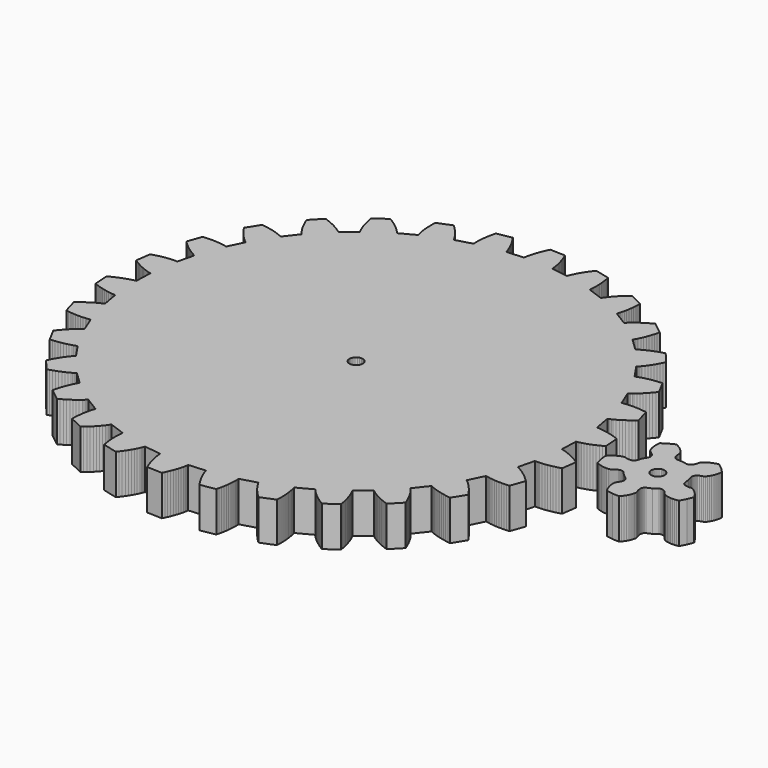
from build123d import *

# Parameters (mm, degrees)
F1_DEPTH = 19.05


with BuildPart() as f1:
    # F0 (on Top) → F1 (new body)
    with BuildSketch(Plane.XY):
        Polygon((78.499716, -7.552817), (78.22819, -7.490333), (78.496668, 0.519049), (78.77175, 0.563245), (79.046832, 0.612267), (79.321914, 0.665607), (79.596996, 0.722757), (80.146906, 0.848233), (80.696562, 0.987679), (81.794604, 1.303401), (82.891376, 1.664081), (83.98637, 2.066163), (85.079078, 2.506599), (86.168992, 2.983611), (87.256366, 3.495421), (88.340438, 4.040505), (89.420954, 4.618355), (88.911938, 11.756517), (87.760302, 12.175109), (86.609682, 12.560935), (85.46084, 12.913233), (84.31403, 13.230479), (83.170014, 13.511403), (82.029046, 13.753973), (80.892142, 13.955395), (79.760318, 14.112113), (79.196438, 14.172057), (78.634336, 14.218285), (78.35392, 14.235811), (78.074012, 14.249527), (77.794866, 14.258925), (77.516228, 14.263751), (76.11364, 22.154007), (76.373482, 22.254337), (76.632562, 22.359493), (76.890372, 22.468713), (77.14742, 22.581997), (77.65923, 22.819233), (78.167992, 23.069677), (79.176626, 23.606887), (80.174338, 24.187785), (81.161636, 24.808561), (82.138774, 25.466675), (83.106006, 26.159841), (84.063078, 26.886535), (85.010244, 27.645233), (85.946996, 28.434919), (83.96478, 35.311461), (82.751422, 35.481133), (81.545684, 35.619563), (80.348836, 35.725227), (79.161132, 35.797109), (77.983588, 35.833939), (76.81722, 35.834193), (75.663298, 35.794823), (74.523346, 35.712781), (73.959466, 35.654107), (73.400158, 35.582479), (73.122028, 35.541331), (72.845676, 35.496627), (72.57034, 35.447859), (72.296782, 35.394519), (69.284342, 42.820463), (69.517768, 42.972863), (69.749162, 43.129581), (69.978778, 43.290109), (70.20687, 43.454193), (70.657974, 43.792521), (71.10349, 44.143549), (71.97852, 44.878625), (72.833484, 45.654341), (73.67016, 46.466887), (74.48931, 47.313723), (75.291188, 48.192817), (76.076302, 49.102391), (76.844906, 50.041683), (77.597, 51.008661), (74.228452, 57.322847), (73.006204, 57.236741), (71.798434, 57.121171), (70.605396, 56.975883), (69.428868, 56.799353), (68.269358, 56.590565), (67.12839, 56.347995), (66.007996, 56.069611), (64.910208, 55.752365), (64.370712, 55.577867), (63.838328, 55.391431), (63.57493, 55.293641), (63.313818, 55.192295), (63.054738, 55.087139), (62.798198, 54.978173), (58.307732, 61.615701), (58.504328, 61.813313), (58.69813, 62.014735), (58.889392, 62.219459), (59.078368, 62.427231), (59.449208, 62.852173), (59.81192, 63.288037), (60.514992, 64.188975), (61.190124, 65.125473), (61.839602, 66.094229), (62.464696, 67.092957), (63.066422, 68.119371), (63.645034, 69.172455), (64.201802, 70.250939), (64.736218, 71.353299), (60.128658, 76.829031), (58.95086, 76.490703), (57.793382, 76.126721), (56.656986, 75.736323), (55.542688, 75.319001), (54.451758, 74.873739), (53.386228, 74.399267), (52.34813, 73.894061), (51.340258, 73.355581), (50.849022, 73.072625), (50.36693, 72.779763), (50.129694, 72.629141), (49.895252, 72.475725), (49.663858, 72.319261), (49.435512, 72.159241), (43.663108, 77.718031), (43.814492, 77.952219), (43.962066, 78.189455), (44.106592, 78.429485), (44.24807, 78.672055), (44.522644, 79.164815), (44.786804, 79.666465), (45.287184, 80.693895), (45.752766, 81.750281), (46.186852, 82.832829), (46.590458, 83.939761), (46.965616, 85.069045), (47.312834, 86.219411), (47.632874, 87.389843), (47.926752, 88.579325), (42.281094, 92.977589), (41.199562, 92.401771), (40.143176, 91.804871), (39.112444, 91.186889), (38.109398, 90.546809), (37.135054, 89.884631), (36.191444, 89.199085), (35.281108, 88.489155), (34.407094, 87.752809), (33.985454, 87.373841), (33.574736, 86.986999), (33.374076, 86.790403), (33.176718, 86.591521), (32.982916, 86.390353), (32.792924, 86.186391), (25.990804, 90.423619), (26.090118, 90.684223), (26.185114, 90.946859), (26.276554, 91.211781), (26.364438, 91.478481), (26.530808, 92.017469), (26.684986, 92.563061), (26.960576, 93.672025), (27.196542, 94.802325), (27.395678, 95.951421), (27.560524, 97.118043), (27.692604, 98.300667), (27.793188, 99.498023), (27.863038, 100.709603), (27.902916, 101.934137), (21.466302, 105.062401), (20.52828, 104.274239), (19.618706, 103.470837), (18.739358, 102.651941), (17.890998, 101.817551), (17.075658, 100.967159), (16.295116, 100.100257), (15.55242, 99.216591), (14.850618, 98.314637), (14.516862, 97.856167), (14.195806, 97.392617), (14.040358, 97.158683), (13.888466, 96.922971), (13.740638, 96.685989), (13.597382, 96.446975), (6.06298, 99.177221), (6.105906, 99.452811), (6.14426, 99.729417), (6.17855, 100.007547), (6.209284, 100.286947), (6.259576, 100.848541), (6.296914, 101.414453), (6.33603, 102.556437), (6.331966, 103.710867), (6.28777, 104.876473), (6.20649, 106.051731), (6.089904, 107.235879), (5.939282, 108.428155), (5.75564, 109.627797), (5.539994, 110.833789), (-1.406144, 112.555401), (-2.160016, 111.589439), (-2.882392, 110.614587), (-3.57251, 109.630845), (-4.228846, 108.638213), (-4.849368, 107.636945), (-5.432552, 106.626787), (-5.975604, 105.607739), (-6.47446, 104.579801), (-6.7056, 104.061895), (-6.923278, 103.541703), (-7.026656, 103.280591), (-7.126224, 103.018463), (-7.221474, 102.755827), (-7.312152, 102.492175), (-15.249398, 103.596567), (-15.264638, 103.874697), (-15.284704, 104.153589), (-15.308834, 104.432735), (-15.337028, 104.712135), (-15.404592, 105.272205), (-15.485618, 105.833291), (-15.684754, 106.958511), (-15.929102, 108.087033), (-16.214344, 109.217841), (-16.538194, 110.350681), (-16.89862, 111.484537), (-17.293844, 112.619409), (-17.72285, 113.754535), (-18.184368, 114.889661), (-25.336754, 115.129437), (-25.873456, 114.027839), (-26.377392, 112.923955), (-26.8478, 111.818039), (-27.283156, 110.710853), (-27.68219, 109.602397), (-28.042616, 108.493179), (-28.361894, 107.383453), (-28.63596, 106.274235), (-28.754578, 105.719753), (-28.859226, 105.165525), (-28.906216, 104.888411), (-28.948888, 104.611551), (-28.987496, 104.334945), (-29.021532, 104.058085), (-37.014912, 103.488109), (-37.08781, 103.757095), (-37.16528, 104.025573), (-37.246814, 104.293543), (-37.332666, 104.561005), (-37.515038, 105.094913), (-37.710872, 105.626789), (-38.139878, 106.685969), (-38.613334, 107.739053), (-39.12743, 108.786041), (-39.67988, 109.826679), (-40.268144, 110.860967), (-40.890698, 111.888651), (-41.546272, 112.909985), (-42.233596, 113.924207), (-49.279556, 112.671479), (-49.575466, 111.482505), (-49.838864, 110.298103), (-50.069242, 109.118527), (-50.264822, 107.944793), (-50.424588, 106.777663), (-50.546508, 105.617645), (-50.628042, 104.466009), (-50.665634, 103.324025), (-50.666396, 102.756843), (-50.653442, 102.192963), (-50.641758, 101.912293), (-50.62601, 101.632639), (-50.606198, 101.354001), (-50.581814, 101.076125), (-58.282078, 98.856673), (-58.409332, 99.104577), (-58.540904, 99.351211), (-58.67654, 99.596321), (-58.815986, 99.840161), (-59.105292, 100.324285), (-59.407806, 100.803837), (-60.047378, 101.751003), (-60.729368, 102.682421), (-61.449966, 103.599615), (-62.206632, 104.502585), (-62.99708, 105.392093), (-63.819786, 106.267885), (-64.67348, 107.130469), (-65.556638, 107.979591), (-72.188324, 105.289477), (-72.230488, 104.064943), (-72.241918, 102.851585), (-72.221852, 101.649911), (-72.169274, 100.461191), (-72.082914, 99.286187), (-71.960994, 98.126423), (-71.801228, 96.982915), (-71.600568, 95.857949), (-71.48322, 95.303213), (-71.35368, 94.754319), (-71.283576, 94.482285), (-71.21017, 94.211775), (-71.132954, 93.943297), (-71.051166, 93.676851), (-78.121764, 89.904697), (-78.297786, 90.120851), (-78.477618, 90.334719), (-78.66126, 90.546301), (-78.848458, 90.755851), (-79.232252, 91.169109), (-79.627476, 91.575509), (-80.450182, 92.368751), (-81.310988, 93.138117), (-82.206592, 93.885385), (-83.134454, 94.611317), (-84.092542, 95.316929), (-85.079332, 96.002729), (-86.093554, 96.668971), (-87.134192, 97.315909), (-93.061536, 93.305757), (-92.848176, 92.099257), (-92.606876, 90.910029), (-92.337636, 89.738835), (-92.038932, 88.586945), (-91.710256, 87.455629), (-91.34983, 86.346411), (-90.955876, 85.261069), (-90.5256, 84.202397), (-90.295476, 83.684237), (-90.054684, 83.174205), (-89.929716, 82.922745), (-89.8017, 82.673571), (-89.670128, 82.426937), (-89.535, 82.183097), (-95.66656, 77.023341), (-95.88373, 77.198347), (-96.104202, 77.370051), (-96.327722, 77.538707), (-96.55429, 77.704823), (-97.015554, 78.029435), (-97.486978, 78.344649), (-98.456496, 78.949677), (-99.458526, 79.523209), (-100.489766, 80.067785), (-101.548184, 80.585183), (-102.632256, 81.076165), (-103.73995, 81.541747), (-104.870504, 81.982437), (-106.022902, 82.398997), (-110.987078, 77.244067), (-110.527338, 76.108179), (-110.04423, 74.995151), (-109.537246, 73.905491), (-109.005878, 72.840977), (-108.448856, 71.802879), (-107.865926, 70.792721), (-107.254802, 69.813043), (-106.61396, 68.866893), (-106.28122, 68.407915), (-105.939336, 67.959097), (-105.764838, 67.739133), (-105.5878, 67.521963), (-105.407968, 67.308095), (-105.225088, 67.097783), (-110.149894, 60.775977), (-110.39856, 60.901961), (-110.65002, 61.023881), (-110.903766, 61.142499), (-111.160052, 61.257815), (-111.67872, 61.479557), (-112.205262, 61.689869), (-113.279174, 62.080013), (-114.378486, 62.432819), (-115.500658, 62.751081), (-116.643658, 63.036831), (-117.805708, 63.291847), (-118.9863, 63.516891), (-120.183656, 63.712979), (-121.397522, 63.880873), (-125.18136, 57.806463), (-124.49556, 56.790971), (-123.791726, 55.802657), (-123.06935, 54.842283), (-122.327924, 53.911627), (-121.567448, 53.011705), (-120.78716, 52.145057), (-119.98579, 51.313715), (-119.162068, 50.521743), (-118.74119, 50.141759), (-118.313708, 49.773967), (-118.0973, 49.594897), (-117.87886, 49.419383), (-117.658388, 49.247679), (-117.435884, 49.080039), (-120.938798, 41.872281), (-121.208038, 41.943655), (-121.47931, 42.010965), (-121.75236, 42.074211), (-122.026934, 42.133647), (-122.580146, 42.242613), (-123.138946, 42.338879), (-124.27077, 42.497121), (-125.419358, 42.613707), (-126.583186, 42.691685), (-127.760476, 42.733849), (-128.950466, 42.741469), (-130.151886, 42.716069), (-131.363974, 42.658919), (-132.585968, 42.570781), (-135.024368, 35.842575), (-134.14248, 34.991929), (-133.2484, 34.171255), (-132.342128, 33.382331), (-131.42341, 32.625919), (-130.4925, 31.903797), (-129.54889, 31.218251), (-128.592326, 30.571821), (-127.622046, 29.968317), (-127.131318, 29.684345), (-126.636526, 29.413327), (-126.387606, 29.283279), (-126.137416, 29.157041), (-125.88621, 29.034613), (-125.63348, 28.917011), (-127.56134, 21.138515), (-127.839724, 21.152485), (-128.119124, 21.161883), (-128.399286, 21.166963), (-128.68021, 21.167979), (-129.24409, 21.159597), (-129.810764, 21.137499), (-130.950462, 21.056981), (-132.098288, 20.932013), (-133.252972, 20.766659), (-134.413244, 20.562951), (-135.57885, 20.322921), (-136.74852, 20.048601), (-137.922508, 19.740499), (-139.09929, 19.400139), (-140.085572, 12.312015), (-139.046204, 11.663299), (-138.000994, 11.046587), (-136.95045, 10.463149), (-135.894572, 9.914255), (-134.833868, 9.401683), (-133.768338, 8.927211), (-132.698236, 8.493887), (-131.623562, 8.105267), (-131.084574, 7.929499), (-130.544316, 7.767193), (-130.273806, 7.691755), (-130.003042, 7.620127), (-129.73177, 7.552817), (-129.460244, 7.490333), (-129.728722, -0.519049), (-130.003804, -0.563245), (-130.278886, -0.612267), (-130.553968, -0.665607), (-130.82905, -0.722757), (-131.37896, -0.848233), (-131.928616, -0.987679), (-133.026658, -1.303401), (-134.12343, -1.664081), (-135.218424, -2.066163), (-136.311132, -2.506599), (-137.401046, -2.983611), (-138.48842, -3.495421), (-139.572492, -4.040505), (-140.653008, -4.618355), (-140.143992, -11.756517), (-138.992356, -12.175109), (-137.841736, -12.560935), (-136.692894, -12.913233), (-135.546084, -13.230479), (-134.402068, -13.511403), (-133.2611, -13.753973), (-132.124196, -13.955395), (-130.992372, -14.112113), (-130.428492, -14.172057), (-129.86639, -14.218285), (-129.585974, -14.235811), (-129.306066, -14.249527), (-129.02692, -14.258925), (-128.748282, -14.263751), (-127.345694, -22.154007), (-127.605536, -22.254337), (-127.864616, -22.359493), (-128.122426, -22.468713), (-128.379474, -22.581997), (-128.891284, -22.819233), (-129.400046, -23.069677), (-130.40868, -23.606887), (-131.406392, -24.187785), (-132.39369, -24.808561), (-133.370828, -25.466675), (-134.33806, -26.159841), (-135.295132, -26.886535), (-136.242298, -27.645233), (-137.17905, -28.434919), (-135.196834, -35.311461), (-133.983476, -35.481133), (-132.777738, -35.619563), (-131.58089, -35.725227), (-130.393186, -35.797109), (-129.215642, -35.833939), (-128.049274, -35.834193), (-126.895352, -35.794823), (-125.755654, -35.712781), (-125.19152, -35.654107), (-124.632212, -35.582479), (-124.354336, -35.541331), (-124.07773, -35.496627), (-123.802394, -35.447859), (-123.528836, -35.394519), (-120.51665, -42.820463), (-120.749822, -42.972863), (-120.981216, -43.129581), (-121.210832, -43.290109), (-121.438924, -43.454193), (-121.890028, -43.792521), (-122.335544, -44.143549), (-123.210574, -44.878625), (-124.065538, -45.654341), (-124.902214, -46.466887), (-125.721364, -47.313723), (-126.523242, -48.192817), (-127.308356, -49.102645), (-128.07696, -50.041683), (-128.829054, -51.008915), (-125.460506, -57.322847), (-124.238258, -57.236741), (-123.030488, -57.121425), (-121.83745, -56.975883), (-120.660922, -56.799353), (-119.501412, -56.590565), (-118.360444, -56.347995), (-117.24005, -56.069611), (-116.142262, -55.752365), (-115.602766, -55.577867), (-115.070382, -55.391431), (-114.806984, -55.293641), (-114.545872, -55.192295), (-114.286792, -55.087139), (-114.030252, -54.978173), (-109.539786, -61.615701), (-109.736382, -61.813313), (-109.930184, -62.014735), (-110.121446, -62.219459), (-110.310422, -62.427231), (-110.681262, -62.852173), (-111.043974, -63.288037), (-111.747046, -64.188975), (-112.422178, -65.125473), (-113.071656, -66.094229), (-113.69675, -67.092957), (-114.298476, -68.119371), (-114.877342, -69.172455), (-115.433856, -70.250939), (-115.968272, -71.353299), (-111.360712, -76.829031), (-110.183168, -76.490703), (-109.025436, -76.126721), (-107.88904, -75.736323), (-106.774742, -75.319001), (-105.683812, -74.873739), (-104.618282, -74.399267), (-103.580184, -73.894061), (-102.572312, -73.355581), (-102.081076, -73.072625), (-101.598984, -72.779763), (-101.361748, -72.629141), (-101.127306, -72.475725), (-100.895912, -72.319261), (-100.667566, -72.159241), (-94.895162, -77.718031), (-95.046546, -77.952219), (-95.19412, -78.189455), (-95.338646, -78.429485), (-95.480124, -78.672055), (-95.754698, -79.164815), (-96.018858, -79.666465), (-96.519238, -80.693895), (-96.98482, -81.750281), (-97.418906, -82.832829), (-97.822512, -83.939761), (-98.19767, -85.069045), (-98.544888, -86.219411), (-98.864928, -87.389843), (-99.158806, -88.579325), (-93.513148, -92.977589), (-92.431616, -92.401771), (-91.37523, -91.804871), (-90.344752, -91.186889), (-89.341452, -90.546809), (-88.367108, -89.884631), (-87.423498, -89.199085), (-86.513162, -88.489155), (-85.639148, -87.752809), (-85.217508, -87.373841), (-84.80679, -86.986999), (-84.60613, -86.790403), (-84.408772, -86.591521), (-84.21497, -86.390353), (-84.024978, -86.186391), (-77.222858, -90.423619), (-77.322172, -90.684223), (-77.417168, -90.946859), (-77.508608, -91.211781), (-77.596492, -91.478481), (-77.762862, -92.017469), (-77.91704, -92.563061), (-78.19263, -93.672025), (-78.428596, -94.802325), (-78.627732, -95.951421), (-78.792578, -97.118043), (-78.924658, -98.300667), (-79.025242, -99.498023), (-79.095092, -100.709603), (-79.13497, -101.934137), (-72.698356, -105.062401), (-71.760334, -104.274239), (-70.85076, -103.470837), (-69.971412, -102.651941), (-69.123052, -101.817551), (-68.307712, -100.967159), (-67.52717, -100.100257), (-66.784474, -99.216591), (-66.082672, -98.314637), (-65.748916, -97.856167), (-65.42786, -97.392617), (-65.272412, -97.158683), (-65.12052, -96.922971), (-64.972692, -96.685989), (-64.829436, -96.446975), (-57.295034, -99.177475), (-57.33796, -99.452811), (-57.376314, -99.729417), (-57.410858, -100.007547), (-57.441338, -100.286947), (-57.49163, -100.848541), (-57.528968, -101.414453), (-57.568084, -102.556437), (-57.56402, -103.710867), (-57.519824, -104.876473), (-57.438544, -106.051731), (-57.321958, -107.235879), (-57.171336, -108.428155), (-56.987694, -109.627797), (-56.772048, -110.833789), (-49.82591, -112.555401), (-49.072038, -111.589439), (-48.349662, -110.614587), (-47.659544, -109.630845), (-47.003208, -108.638213), (-46.382686, -107.636945), (-45.799502, -106.626787), (-45.25645, -105.607739), (-44.757594, -104.579801), (-44.526454, -104.061895), (-44.308776, -103.541703), (-44.205398, -103.280591), (-44.10583, -103.018463), (-44.01058, -102.755827), (-43.919902, -102.492175), (-35.982656, -103.596567), (-35.967416, -103.874697), (-35.94735, -104.153589), (-35.92322, -104.432735), (-35.895026, -104.712135), (-35.827462, -105.272205), (-35.746436, -105.833291), (-35.5473, -106.958511), (-35.302952, -108.087033), (-35.01771, -109.217841), (-34.69386, -110.350681), (-34.333434, -111.484537), (-33.93821, -112.619409), (-33.509204, -113.754535), (-33.047686, -114.889661), (-25.8953, -115.129437), (-25.358598, -114.027839), (-24.854662, -112.923955), (-24.384254, -111.818293), (-23.948898, -110.710853), (-23.549864, -109.602397), (-23.189438, -108.493179), (-22.87016, -107.383453), (-22.596094, -106.274235), (-22.477476, -105.719753), (-22.372828, -105.165525), (-22.325838, -104.888411), (-22.283166, -104.611551), (-22.244558, -104.334945), (-22.210522, -104.058085), (-14.217142, -103.488109), (-14.144244, -103.757095), (-14.066774, -104.025573), (-13.98524, -104.293543), (-13.899388, -104.561005), (-13.717016, -105.094913), (-13.521182, -105.626789), (-13.092176, -106.685969), (-12.61872, -107.739053), (-12.104624, -108.786041), (-11.552174, -109.826679), (-10.96391, -110.860967), (-10.341356, -111.888651), (-9.685782, -112.909985), (-8.998458, -113.924207), (-1.952498, -112.671479), (-1.656588, -111.482505), (-1.39319, -110.298103), (-1.162812, -109.118527), (-0.967232, -107.944793), (-0.807466, -106.777663), (-0.685546, -105.617645), (-0.604012, -104.466009), (-0.56642, -103.324025), (-0.565658, -102.756843), (-0.578612, -102.192963), (-0.590296, -101.912293), (-0.606044, -101.632639), (-0.625856, -101.354001), (-0.65024, -101.076125), (7.050024, -98.856673), (7.177278, -99.104577), (7.30885, -99.351211), (7.444486, -99.596321), (7.583932, -99.840161), (7.873238, -100.324285), (8.175752, -100.803837), (8.815324, -101.751003), (9.497314, -102.682421), (10.217912, -103.599615), (10.974578, -104.502585), (11.765026, -105.392093), (12.587732, -106.267885), (13.441426, -107.130469), (14.324584, -107.979591), (20.95627, -105.289477), (20.998434, -104.064943), (21.009864, -102.851585), (20.989798, -101.649911), (20.93722, -100.461191), (20.85086, -99.286187), (20.72894, -98.126423), (20.569174, -96.982915), (20.368514, -95.857949), (20.251166, -95.303213), (20.121626, -94.754319), (20.051522, -94.482285), (19.978116, -94.211775), (19.9009, -93.943297), (19.819112, -93.676851), (26.88971, -89.904697), (27.065732, -90.120851), (27.245564, -90.334719), (27.429206, -90.546301), (27.616404, -90.755851), (28.000198, -91.169109), (28.395422, -91.575509), (29.218128, -92.368751), (30.078934, -93.138117), (30.974538, -93.885385), (31.9024, -94.611317), (32.860488, -95.316929), (33.847278, -96.002729), (34.8615, -96.668971), (35.902138, -97.315909), (41.829482, -93.305757), (41.616122, -92.099257), (41.374822, -90.910029), (41.105582, -89.738835), (40.806878, -88.586945), (40.478202, -87.455629), (40.117776, -86.346411), (39.723822, -85.261069), (39.293546, -84.202397), (39.063422, -83.684237), (38.82263, -83.174205), (38.697662, -82.922745), (38.569646, -82.673571), (38.438074, -82.426937), (38.302946, -82.183097), (44.434506, -77.023341), (44.651676, -77.198347), (44.872148, -77.370051), (45.095668, -77.538707), (45.322236, -77.704823), (45.7835, -78.029435), (46.254924, -78.344649), (47.224442, -78.949677), (48.226472, -79.523209), (49.257712, -80.067785), (50.31613, -80.585183), (51.400202, -81.076165), (52.507896, -81.541747), (53.63845, -81.982437), (54.790848, -82.398997), (59.755024, -77.244067), (59.295284, -76.108179), (58.812176, -74.995151), (58.305192, -73.905745), (57.773824, -72.840977), (57.216802, -71.802879), (56.633872, -70.792721), (56.022748, -69.813043), (55.381906, -68.866893), (55.049166, -68.407915), (54.707282, -67.959097), (54.532784, -67.739133), (54.355746, -67.521963), (54.175914, -67.308095), (53.993034, -67.097783), (58.91784, -60.775977), (59.166506, -60.901961), (59.417966, -61.023881), (59.671712, -61.142499), (59.927998, -61.257815), (60.446666, -61.479557), (60.973208, -61.689869), (62.04712, -62.080013), (63.146432, -62.432819), (64.268604, -62.751081), (65.411604, -63.036831), (66.573654, -63.291847), (67.754246, -63.516891), (68.951602, -63.712979), (70.165468, -63.880873), (73.949306, -57.806463), (73.263506, -56.790971), (72.559672, -55.802657), (71.837296, -54.842283), (71.09587, -53.911627), (70.335394, -53.011705), (69.555106, -52.145057), (68.753736, -51.313715), (67.930014, -50.521743), (67.509136, -50.141759), (67.081654, -49.773967), (66.865246, -49.594897), (66.646806, -49.419383), (66.426334, -49.247679), (66.203576, -49.080039), (69.706744, -41.872281), (69.975984, -41.943655), (70.247256, -42.010965), (70.520306, -42.074211), (70.79488, -42.133647), (71.348092, -42.242613), (71.906892, -42.338879), (73.038716, -42.497121), (74.187304, -42.613707), (75.351132, -42.691685), (76.528422, -42.733849), (77.718412, -42.741469), (78.919832, -42.716069), (80.13192, -42.658919), (81.353914, -42.570781), (83.792314, -35.842575), (82.910426, -34.991929), (82.016346, -34.171255), (81.110074, -33.382331), (80.191356, -32.625919), (79.260446, -31.903797), (78.316836, -31.218251), (77.360272, -30.571821), (76.389992, -29.968317), (75.899264, -29.684345), (75.404472, -29.413327), (75.155552, -29.283279), (74.905362, -29.157041), (74.654156, -29.034613), (74.401426, -28.917011), (76.329286, -21.138515), (76.60767, -21.152485), (76.88707, -21.161883), (77.167232, -21.166963), (77.448156, -21.167979), (78.012036, -21.159597), (78.57871, -21.137499), (79.718408, -21.056981), (80.866234, -20.932013), (82.020918, -20.766659), (83.18119, -20.562951), (84.346542, -20.322921), (85.516466, -20.048601), (86.690454, -19.740499), (87.867236, -19.400139), (88.853518, -12.312015), (87.81415, -11.663299), (86.76894, -11.046587), (85.718396, -10.463149), (84.662518, -9.914255), (83.601814, -9.401683), (82.536284, -8.927211), (81.466182, -8.493887), (80.391508, -8.105267), (79.85252, -7.929499), (79.312262, -7.767193), (79.041752, -7.691755), (78.770988, -7.620127), align=None)
        Polygon((-22.549104, 0.821817), (-22.441154, -0.000127), (-22.549104, -0.821817), (-22.86635, -1.587627), (-23.371048, -2.244979), (-24.028654, -2.749677), (-24.79421, -3.066923), (-25.616154, -3.175127), (-26.437844, -3.066923), (-27.203654, -2.749677), (-27.861006, -2.244979), (-28.365704, -1.587627), (-28.68295, -0.821817), (-28.791154, -0.000127), (-28.68295, 0.821817), (-28.365704, 1.587373), (-27.861006, 2.244979), (-27.203654, 2.749677), (-26.437844, 3.066923), (-25.616154, 3.174873), (-24.79421, 3.066923), (-24.028654, 2.749677), (-23.371048, 2.244979), (-22.86635, 1.587373), align=None, mode=Mode.SUBTRACT)
        Polygon((107.129326, -7.206869), (107.668822, -7.651115), (109.264704, -9.412351), (111.159544, -10.847451), (111.649256, -11.346053), (111.789464, -11.629517), (111.86795, -11.876405), (111.912654, -12.104243), (111.934498, -12.319127), (111.939324, -12.524867), (111.909352, -12.916535), (111.838994, -13.288137), (111.736124, -13.644753), (111.451136, -14.321663), (111.077502, -14.958695), (110.627922, -15.560167), (110.355888, -16.243427), (110.293912, -17.022191), (110.320074, -17.834229), (110.42523, -18.671667), (110.60557, -19.528409), (110.858808, -20.399375), (111.183928, -21.279739), (111.580168, -22.164929), (112.04702, -23.050627), (115.200176, -23.626191), (118.4021, -23.772495), (119.055642, -23.014051), (119.64035, -22.240113), (120.154446, -21.455253), (120.59666, -20.663281), (120.964706, -19.868769), (121.255028, -19.076289), (121.462546, -18.290667), (121.576846, -17.517999), (121.465086, -16.791051), (121.161556, -16.103981), (120.940576, -15.399385), (120.814592, -14.675739), (120.794272, -14.305407), (120.809004, -13.927201), (120.867678, -13.539089), (120.918478, -13.339445), (120.988074, -13.134975), (121.082562, -12.923139), (121.214642, -12.700127), (121.41454, -12.455271), (122.00382, -12.079097), (124.171964, -11.105515), (126.12243, -9.746869), (126.747778, -9.435211), (127.060706, -9.389745), (127.32004, -9.391523), (127.550164, -9.419209), (127.761492, -9.464675), (127.958596, -9.523857), (128.321816, -9.673209), (128.65354, -9.855073), (128.96088, -10.063099), (129.516632, -10.543413), (130.007106, -11.095609), (130.439922, -11.709019), (131.006088, -12.178919), (131.727194, -12.478385), (132.507736, -12.704445), (133.336792, -12.863195), (134.20725, -12.956413), (135.113776, -12.984607), (136.051544, -12.947523), (137.015728, -12.844399), (138.002518, -12.674219), (139.524232, -9.853041), (140.653008, -6.853047), (140.133578, -5.997067), (139.57808, -5.202047), (138.990578, -4.470273), (138.37412, -3.805047), (137.732008, -3.209671), (137.068052, -2.688717), (136.385046, -2.248281), (135.68553, -1.901063), (134.959598, -1.782699), (134.212584, -1.858899), (133.473952, -1.851533), (132.74675, -1.747647), (132.388102, -1.652397), (132.033264, -1.521587), (131.682236, -1.345819), (131.508246, -1.235837), (131.335018, -1.106551), (131.162806, -0.951103), (130.991356, -0.756793), (130.820414, -0.490855), (130.644646, 0.185801), (130.388868, 2.548763), (129.699512, 4.823333), (129.596388, 5.514721), (129.649728, 5.826379), (129.731516, 6.072251), (129.829052, 6.282817), (129.93751, 6.469507), (130.054858, 6.638925), (130.309112, 6.938137), (130.584448, 7.197471), (130.87731, 7.425309), (131.505706, 7.805547), (132.182616, 8.101203), (132.899912, 8.323453), (133.52145, 8.716645), (134.029196, 9.309989), (134.485634, 9.982327), (134.892542, 10.721721), (135.250428, 11.521059), (135.55726, 12.374499), (135.811768, 13.277723), (136.011666, 14.226667), (136.154668, 15.217521), (133.94182, 17.536795), (131.43738, 19.537045), (130.462782, 19.307683), (129.53492, 19.025235), (128.657604, 18.692495), (127.83439, 18.311749), (127.06985, 17.885029), (126.369064, 17.414621), (125.739144, 16.901033), (125.19279, 16.343249), (124.855732, 15.689199), (124.69749, 14.955139), (124.462286, 14.255115), (124.13869, 13.595731), (123.937522, 13.284073), (123.703334, 12.986893), (123.42749, 12.707239), (123.269248, 12.575667), (123.092718, 12.450953), (122.89155, 12.335383), (122.653806, 12.232513), (122.34799, 12.151995), (121.650506, 12.193905), (119.32412, 12.680823), (116.947696, 12.728067), (116.25834, 12.843637), (115.978432, 12.990703), (115.769644, 13.144373), (115.599718, 13.302107), (115.4557, 13.463143), (115.330732, 13.626973), (115.124738, 13.961237), (114.963448, 14.303375), (114.836956, 14.652117), (114.669824, 15.367381), (114.597434, 16.102457), (114.607848, 16.853281), (114.426238, 17.566005), (114.018568, 18.232247), (113.52022, 18.874105), (112.942624, 19.489801), (112.293146, 20.076795), (111.576358, 20.632547), (110.79607, 21.153501), (109.955076, 21.636863), (109.056932, 22.079077), (106.167428, 20.691475), (103.49103, 18.927699), (103.408226, 17.929733), (103.390192, 16.960215), (103.435404, 16.022955), (103.5431, 15.122271), (103.712518, 14.263243), (103.943404, 13.451459), (104.237282, 12.693777), (104.598978, 12.001627), (105.116884, 11.479149), (105.766108, 11.101705), (106.359198, 10.661777), (106.886248, 10.150221), (107.12069, 9.862439), (107.330748, 9.547987), (107.511596, 9.199245), (107.587796, 9.007983), (107.651804, 8.801735), (107.699556, 8.574659), (107.72394, 8.316849), (107.70616, 8.001127), (107.450636, 7.350379), (106.26852, 5.288407), (105.489248, 3.042793), (105.166414, 2.423033), (104.9401, 2.202307), (104.729534, 2.051431), (104.526842, 1.938401), (104.32923, 1.851025), (104.13492, 1.782953), (103.753158, 1.690497), (103.378, 1.642491), (103.00716, 1.630299), (102.275132, 1.692021), (101.553772, 1.850517), (100.842826, 2.092325), (100.10902, 2.139823), (99.349306, 1.958213), (98.58502, 1.682369), (97.820988, 1.323467), (97.062036, 0.887095), (96.311974, 0.377317), (95.57512, -0.204089), (94.855792, -0.854329), (94.157546, -1.571879), (94.58452, -4.748657), (95.434912, -7.839329), (96.358202, -8.226425), (97.274888, -8.543163), (98.180398, -8.789797), (99.07016, -8.965565), (99.939348, -9.069959), (100.782882, -9.101201), (101.594158, -9.055735), (102.364286, -8.925687), (103.02113, -8.594725), (103.580692, -8.094091), (104.182418, -7.665847), (104.831896, -7.322439), (105.177844, -7.188581), (105.54208, -7.085965), (105.92943, -7.021703), (106.134916, -7.008495), (106.350816, -7.011289), (106.581702, -7.035927), (106.834432, -7.092315), align=None)
        Polygon((120.950482, 0.821817), (121.058686, -0.000127), (120.950482, -0.821817), (120.633236, -1.587627), (120.128792, -2.244979), (119.471186, -2.749677), (118.705376, -3.066923), (117.883686, -3.175127), (117.061996, -3.066923), (116.296186, -2.749677), (115.63858, -2.244979), (115.134136, -1.587627), (114.81689, -0.821817), (114.708686, -0.000127), (114.81689, 0.821817), (115.134136, 1.587373), (115.63858, 2.244979), (116.296186, 2.749677), (117.061996, 3.066923), (117.883686, 3.174873), (118.705376, 3.066923), (119.471186, 2.749677), (120.128792, 2.244979), (120.633236, 1.587373), align=None, mode=Mode.SUBTRACT)
    extrude(amount=F1_DEPTH)


solid = f1.part
